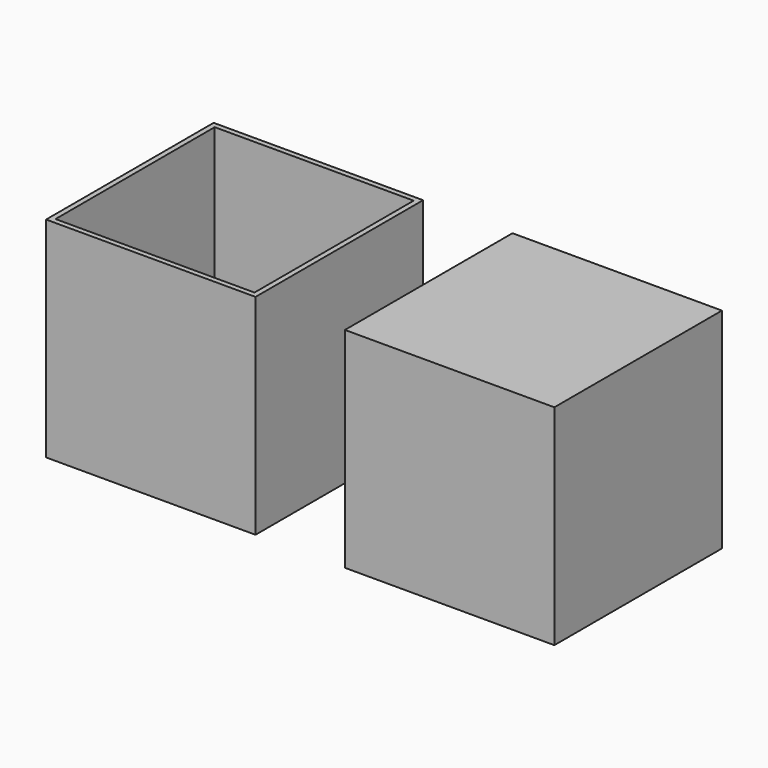
from build123d import *

# Parameters (mm, degrees)
F0_W     = 80
F0_H     = 80
F1_DEPTH = 80
F2_DEPTH = 80
F3_W     = 76
F3_H     = 76
F4_DEPTH = 78


with BuildPart() as f1:
    # F0 (on Top) → F1 (new body)
    with BuildSketch(Plane.XY):
        with Locations((-93.947144, 0.158527)):
            Rectangle(F0_W, F0_H)
    extrude(amount=F1_DEPTH)


with BuildPart() as f2:
    # F0 (on Top) → F2 (new body)
    with BuildSketch(Plane.XY):
        with Locations((20.198832, 0.158527)):
            Rectangle(F0_W, F0_H)
    extrude(amount=F2_DEPTH)


with BuildPart() as f4:
    # F3 (on face) → F4 (new body)
    with BuildSketch(Plane.XY.offset(80)):
        with Locations((-93.947144, 0.158527)):
            Rectangle(F3_W, F3_H)
    extrude(amount=-F4_DEPTH)


with BuildPart() as f1_1:
    add(f1.part)

    # F5: cut F4
    add(f4.part, mode=Mode.SUBTRACT)


solid = Compound([f2.part, f1_1.part])
